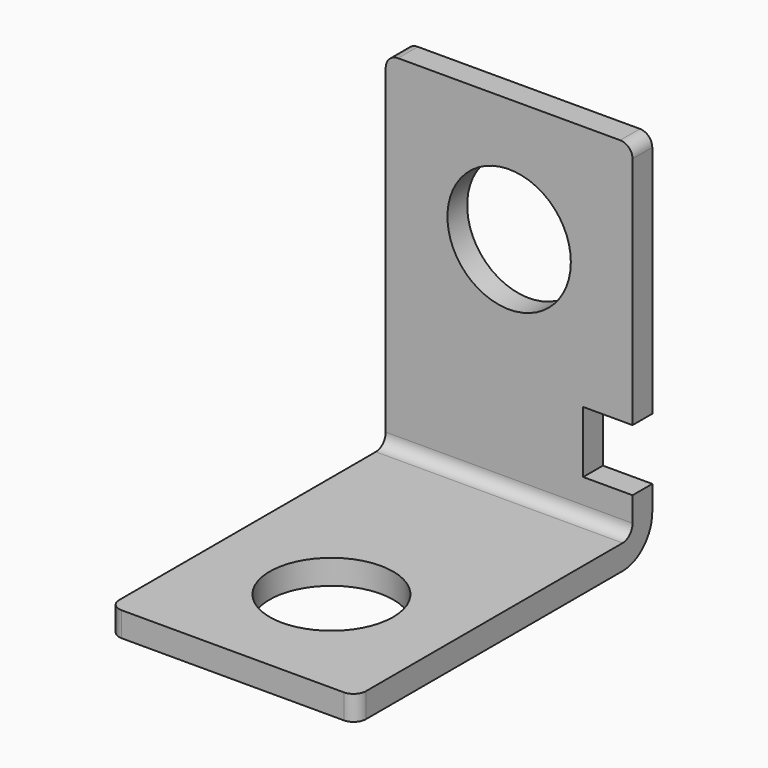
from build123d import *

# Parameters (mm, degrees)
F1_DEPTH = 10
F2_R     = 1
F3_R     = 5
F4_DEPTH = 25
F5_R     = 5
F6_DEPTH = 25
F7_W     = 4
F7_H     = 5
F8_DEPTH = 25
F9_R     = 3


with BuildPart() as f1:
    # F0 (on Right) → F1 (new body, symmetric)
    with BuildSketch(Plane.YZ):
        Polygon((-26.84964, 3.006862), (-26.84964, 1.006862), (3.15036, 1.006862), (3.15036, 31.006862), (1.15036, 31.006862), (1.15036, 3.006862), align=None)
    extrude(amount=F1_DEPTH, both=True)

    # F2
    f2_edges = [f1.edges().sort_by_distance(p)[0] for p in [
        (0, 1.15036, 3.006862),
        (10, 2.15036, 31.006862),
        (-10, 2.15036, 31.006862),
        (10, -26.84964, 2.006862),
        (-10, -26.84964, 2.006862),
    ]]
    fillet(f2_edges, radius=F2_R)

    # F3 (on face) → F4 (cut)
    with BuildSketch(Plane.XY.offset(3.006862)):
        with Locations((0, -16.84964)):
            Circle(F3_R)
    extrude(amount=-F4_DEPTH, mode=Mode.SUBTRACT)

    # F5 (on face) → F6 (cut)
    with BuildSketch(Plane.XZ.offset(-1.15036)):
        with Locations((0, 21.006862)):
            Circle(F5_R)
    extrude(amount=-F6_DEPTH, mode=Mode.SUBTRACT)

    # F7 (on face) → F8 (cut)
    with BuildSketch(Plane.XZ.offset(-1.15036)):
        with Locations((8, 8.506862)):
            Rectangle(F7_W, F7_H)
    extrude(amount=-F8_DEPTH, mode=Mode.SUBTRACT)

    # F9
    f9_edges = [f1.edges().sort_by_distance(p)[0] for p in [
        (0, 3.15036, 1.006862),
    ]]
    fillet(f9_edges, radius=F9_R)


solid = f1.part
